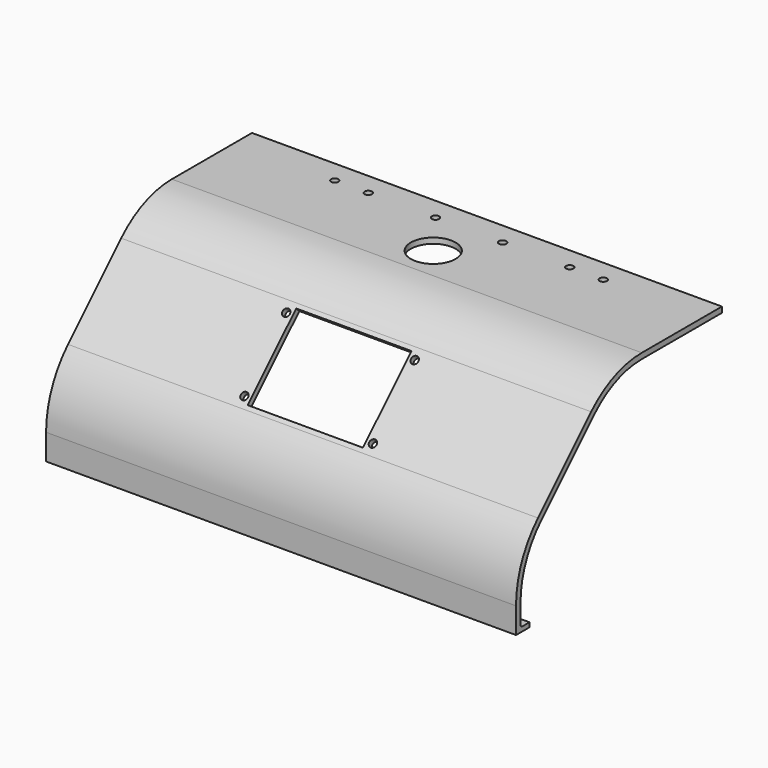
from build123d import *

# Parameters (mm, degrees)
PAD_DEPTH       = 105
PAD_DEPTH_BACK  = 105
SKETCH001_R     = 1.65
SKETCH001_W     = 38.25
SKETCH001_H     = 51.5
POCKET_DEPTH    = 101.705966
SKETCH003_R     = 1.65
POCKET001_DEPTH = 5
SKETCH004_W     = 2
SKETCH004_H     = 210
PAD001_DEPTH    = 5
FILLET_R        = 1
SKETCH005_R     = 10
POCKET002_DEPTH = 5


with BuildPart() as part:
    # Sketch → Pad (new body, two sides)
    with BuildSketch(Plane.YZ) as pad_sk:
        with BuildLine():
            Line((12.736792, 82.5), (57.500792, 82.5))
            Line((57.500792, 82.5), (57.500792, 80))
            Line((57.500792, 80), (12.736792, 80))
            ThreePointArc((12.736792, 80), (-1.613837, 77.145482), (-13.779712, 69.016504))
            Line((-13.779712, 69.016504), (-43.478197, 39.318019))
            ThreePointArc((-43.478197, 39.318019), (-52.006167, 26.55501), (-55.000792, 11.500014))
            Line((-55.000792, 11.500014), (-55.000792, 0))
            Line((-55.000792, 0), (-57.500792, 0))
            Line((-57.500792, 11.500014), (-57.500792, 0))
            ThreePointArc((-45.245964, 41.085786), (-54.315866, 27.511719), (-57.500792, 11.500014))
            Line((-15.547479, 70.784271), (-45.245964, 41.085786))
            ThreePointArc((12.736792, 82.5), (-2.570545, 79.455181), (-15.547479, 70.784271))
        make_face()
    extrude(amount=PAD_DEPTH)
    extrude(pad_sk.sketch, amount=-PAD_DEPTH_BACK)

    # Sketch001 (on Face12 of Pad) → Pocket (cut, through all)
    with BuildSketch(Plane(origin=(0, -43.165875, 43.165875), x_dir=(0, -0.707107, -0.707107), z_dir=(0, -0.707107, 0.707107))):
        with Locations((-34.55831, 28.7)):
            Circle(SKETCH001_R)
        with Locations((-1.55831, 28.7)):
            Circle(SKETCH001_R)
        with Locations((-34.55831, -28.7)):
            Circle(SKETCH001_R)
        with Locations((-1.55831, -28.7)):
            Circle(SKETCH001_R)
        with Locations((-18.05831, 0)):
            Rectangle(SKETCH001_W, SKETCH001_H)
    extrude(amount=-POCKET_DEPTH, mode=Mode.SUBTRACT)

    # Sketch003 (on Face2 of Pocket) → Pocket001 (cut)
    with BuildSketch(Plane(origin=(0, 0, 82.5), x_dir=(0, -1, 0), z_dir=(0, 0, 1))):
        with Locations((-47.500792, 15)):
            Circle(SKETCH003_R)
        with Locations((-47.500792, 45)):
            Circle(SKETCH003_R)
        with Locations((-47.500792, -15)):
            Circle(SKETCH003_R)
        with Locations((-47.500792, -45)):
            Circle(SKETCH003_R)
        with Locations((-47.500792, 60)):
            Circle(SKETCH003_R)
        with Locations((-47.500792, -60)):
            Circle(SKETCH003_R)
    extrude(amount=-POCKET001_DEPTH, mode=Mode.SUBTRACT)

    # Sketch004 (on Face26 of Pocket001) → Pad001 (join)
    with BuildSketch(Plane.ZX.offset(-55.000792)):
        with Locations((1, 0)):
            Rectangle(SKETCH004_W, SKETCH004_H)
    extrude(amount=PAD001_DEPTH)

    # Fillet
    fillet_edges = [part.edges().sort_by_distance(p)[0] for p in [
        (0, -55.000792, 2),
    ]]
    fillet(fillet_edges, radius=FILLET_R)

    # Sketch005 (on Face15 of Fillet) → Pocket002 (cut)
    with BuildSketch(Plane(origin=(0, 0, 82.5), x_dir=(0, -1, 0), z_dir=(0, 0, 1))):
        with Locations((-27.500792, 0)):
            Circle(SKETCH005_R)
    extrude(amount=-POCKET002_DEPTH, mode=Mode.SUBTRACT)


solid = part.part
